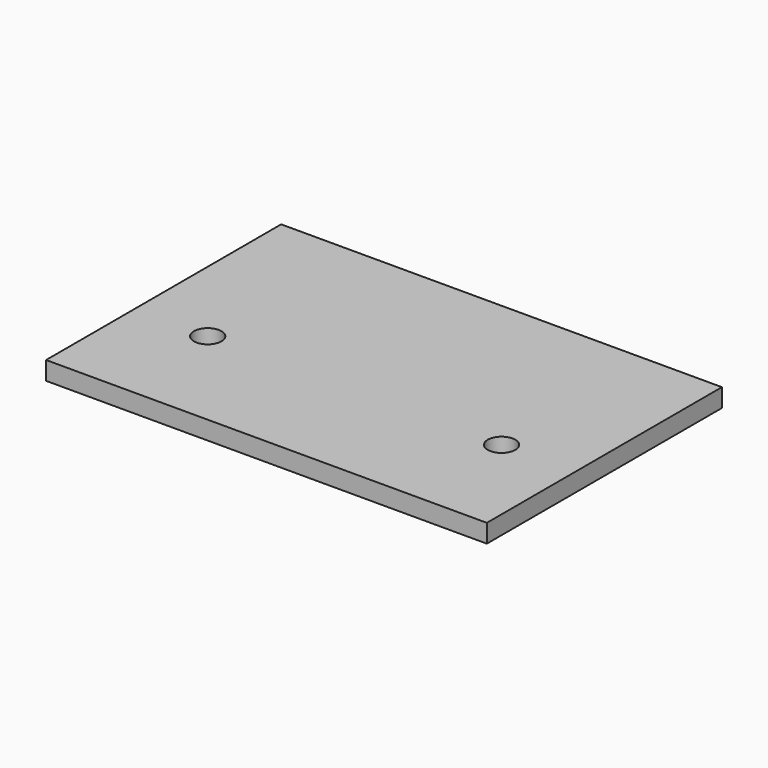
from build123d import *

# Parameters (mm, degrees)
F0_W     = 76.2
F0_H     = 50.8
F1_DEPTH = 1.5875
F2_R     = 2.38125
F3_DEPTH = 3.175


with BuildPart() as f1:
    # F0 (on Top) → F1 (new body, symmetric)
    with BuildSketch(Plane.XY):
        Rectangle(F0_W, F0_H)
    extrude(amount=F1_DEPTH, both=True)

    # F2 (on face) → F3 (cut, through all)
    with BuildSketch(Plane.XY.offset(1.5875)):
        with Locations((-25.4, -6.35)):
            Circle(F2_R)
        with Locations((25.4, -6.35)):
            Circle(F2_R)
    extrude(amount=-F3_DEPTH, mode=Mode.SUBTRACT)


solid = f1.part
